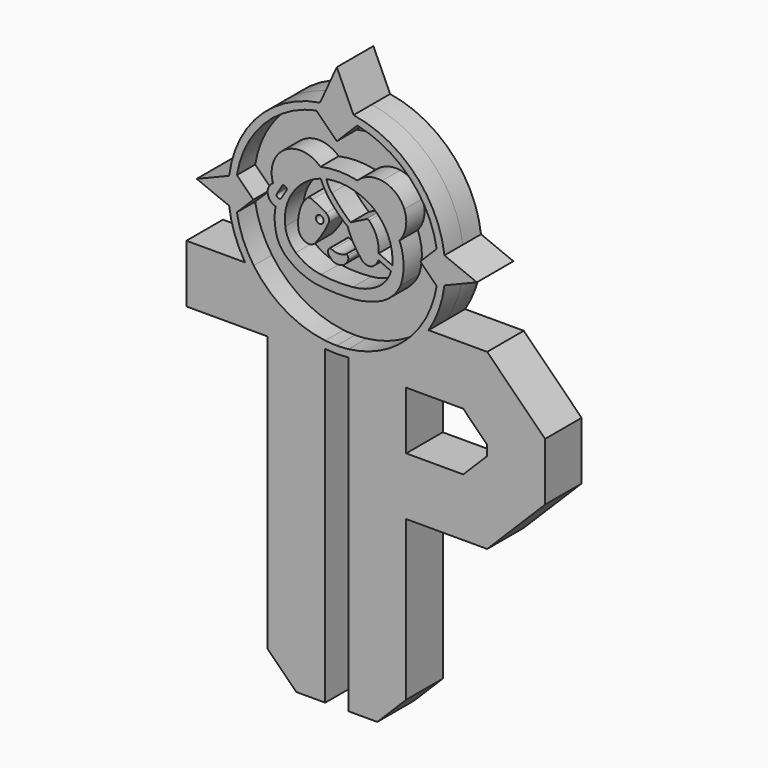
from build123d import *

# Parameters (mm, degrees)
F1_DEPTH  = 2.0066
F3_DEPTH  = 2.0066
F5_DEPTH  = 2.0066
F6_DEPTH  = 2.0066
F7_R      = 0.3395853491
F8_DEPTH  = 2.0066
F10_DEPTH = 25.4


with BuildPart() as f1:
    # F0 (on Front) → F1 (new body)
    with BuildSketch(Plane.XZ):
        with BuildLine():
            ThreePointArc((22.733, 36.83), (10.5641061085, 45.9807076279), (5.1507532618, 31.75))
            Line((5.1507532618, 31.75), (12.192, 31.75))
            Line((12.192, 31.75), (13.208, 31.75))
            Line((13.208, 31.75), (14.224, 31.75))
            Line((14.224, 31.75), (19.304, 31.75))
            Line((19.304, 31.75), (21.2652467382, 31.75))
            ThreePointArc((21.2652467382, 31.75), (22.3587076279, 34.1861061085), (22.733, 36.83))
        make_face()
        with BuildLine():
            ThreePointArc((5.1507532618, 31.75), (8.168116895, 28.7475991631), (12.192, 27.3593416807))
            Line((12.192, 27.3593416807), (12.192, 31.75))
            Line((12.192, 31.75), (5.1507532618, 31.75))
        make_face()
        with BuildLine():
            Line((14.224, 31.75), (14.224, 27.3593416807))
            ThreePointArc((14.224, 27.3593416807), (16.9232107282, 28.0594336417), (19.304, 29.5112289966))
            Line((19.304, 29.5112289966), (19.304, 31.75))
            Line((19.304, 31.75), (14.224, 31.75))
        make_face()
        with BuildLine():
            Line((12.192, 31.75), (12.192, 27.3593416807))
            ThreePointArc((12.192, 27.3593416807), (12.6992738904, 27.3185951224), (13.208, 27.305))
            Line((13.208, 27.305), (13.208, 31.75))
            Line((13.208, 31.75), (12.192, 31.75))
        make_face()
        with BuildLine():
            Line((13.208, 31.75), (13.208, 27.305))
            ThreePointArc((13.208, 27.305), (13.7167261096, 27.3185951224), (14.224, 27.3593416807))
            Line((14.224, 27.3593416807), (14.224, 31.75))
            Line((14.224, 31.75), (13.208, 31.75))
        make_face()
        with BuildLine():
            Line((7.112, 2.54), (9.652, 0))
            Line((9.652, 0), (12.192, 0))
            Line((12.192, 0), (12.192, 27.3593416807))
            ThreePointArc((12.192, 27.3593416807), (8.168116895, 28.7475991631), (5.1507532618, 31.75))
            Line((5.1507532618, 31.75), (0, 31.75))
            Line((0, 31.75), (0, 29.21))
            Line((0, 29.21), (2.54, 26.67))
            Line((2.54, 26.67), (7.112, 26.67))
            Line((7.112, 26.67), (7.112, 2.54))
        make_face()
        with BuildLine():
            Line((14.224, 27.3593416807), (14.224, 0))
            Line((14.224, 0), (16.764, 0))
            Line((16.764, 0), (19.304, 2.54))
            Line((19.304, 2.54), (19.304, 16.51))
            Line((19.304, 16.51), (19.304, 21.59))
            Line((19.304, 21.59), (19.304, 26.67))
            Line((19.304, 26.67), (19.304, 29.5112289966))
            ThreePointArc((19.304, 29.5112289966), (16.9232107282, 28.0594336417), (14.224, 27.3593416807))
        make_face()
        with BuildLine():
            Line((26.416, 31.75), (21.2652467382, 31.75))
            ThreePointArc((21.2652467382, 31.75), (20.372609006, 30.553535805), (19.304, 29.5112289966))
            Line((19.304, 29.5112289966), (19.304, 26.67))
            Line((19.304, 26.67), (24.3117951031, 26.67))
            Line((24.3117951031, 26.67), (26.416, 24.5657951031))
            Line((26.416, 24.5657951031), (26.416, 23.6942048969))
            Line((26.416, 23.6942048969), (24.3117951031, 21.59))
            Line((24.3117951031, 21.59), (19.304, 21.59))
            Line((19.304, 21.59), (19.304, 16.51))
            Line((19.304, 16.51), (26.416, 16.51))
            Line((26.416, 16.51), (31.496, 21.59))
            Line((31.496, 21.59), (31.496, 26.67))
            Line((31.496, 26.67), (26.416, 31.75))
        make_face()
        with BuildLine():
            ThreePointArc((19.304, 29.5112289966), (20.372609006, 30.553535805), (21.2652467382, 31.75))
            Line((21.2652467382, 31.75), (19.304, 31.75))
            Line((19.304, 31.75), (19.304, 29.5112289966))
        make_face()
        Polygon((0, 29.21), (0, 26.67), (2.54, 26.67), align=None)
    extrude(amount=F1_DEPTH)

    # F2 (on face) → F3 (join)
    with BuildSketch(Plane.XZ.offset(2.0066)):
        with BuildLine():
            Line((7.112, 2.54), (9.652, 0))
            Line((9.652, 0), (12.192, 0))
            Line((12.192, 0), (12.192, 27.3593416807))
            ThreePointArc((12.192, 27.3593416807), (8.168116895, 28.7475991631), (5.1507532618, 31.75))
            Line((5.1507532618, 31.75), (0, 31.75))
            Line((0, 31.75), (0, 29.21))
            Line((0, 29.21), (2.54, 26.67))
            Line((2.54, 26.67), (7.112, 26.67))
            Line((7.112, 26.67), (7.112, 2.54))
        make_face()
        with BuildLine():
            Line((14.224, 27.3593416807), (14.224, 0))
            Line((14.224, 0), (16.764, 0))
            Line((16.764, 0), (19.304, 2.54))
            Line((19.304, 2.54), (19.304, 16.51))
            Line((19.304, 16.51), (19.304, 21.59))
            Line((19.304, 21.59), (19.304, 26.67))
            Line((19.304, 26.67), (19.304, 29.5112289966))
            ThreePointArc((19.304, 29.5112289966), (16.9232107282, 28.0594336417), (14.224, 27.3593416807))
        make_face()
        with BuildLine():
            Line((26.416, 31.75), (21.2652467382, 31.75))
            ThreePointArc((21.2652467382, 31.75), (20.372609006, 30.553535805), (19.304, 29.5112289966))
            Line((19.304, 29.5112289966), (19.304, 26.67))
            Line((19.304, 26.67), (24.3117951031, 26.67))
            Line((24.3117951031, 26.67), (26.416, 24.5657951031))
            Line((26.416, 24.5657951031), (26.416, 23.6942048969))
            Line((26.416, 23.6942048969), (24.3117951031, 21.59))
            Line((24.3117951031, 21.59), (19.304, 21.59))
            Line((19.304, 21.59), (19.304, 16.51))
            Line((19.304, 16.51), (26.416, 16.51))
            Line((26.416, 16.51), (31.496, 21.59))
            Line((31.496, 21.59), (31.496, 26.67))
            Line((31.496, 26.67), (26.416, 31.75))
        make_face()
        Polygon((0, 29.21), (0, 26.67), (2.54, 26.67), align=None)
    extrude(amount=F3_DEPTH)

    # F4 (on face) → F5 (join)
    with BuildSketch(Plane.XZ.offset(2.0066)):
        with BuildLine():
            ThreePointArc((11.7337383392, 46.2402166583), (6.3613907125, 43.4519005024), (3.7538411591, 37.989528185))
            Line((3.7538411591, 37.989528185), (4.4348826521, 38.2668409794))
            ThreePointArc((4.4348826521, 38.2668409794), (6.793993779, 42.9856985142), (11.4119487758, 45.5366813425))
            Line((11.4119487758, 45.5366813425), (11.7337383392, 46.2402166583))
        make_face()
        with BuildLine():
            Line((13.208, 49.4634260503), (11.7337383392, 46.2402166583))
            ThreePointArc((11.7337383392, 46.2402166583), (12.4686383395, 46.3262608081), (13.208, 46.355))
            Line((13.208, 46.355), (13.208, 49.4634260503))
        make_face()
        with BuildLine():
            ThreePointArc((13.208, 46.355), (12.4686383395, 46.3262608081), (11.7337383392, 46.2402166583))
            Line((11.7337383392, 46.2402166583), (11.4119487758, 45.5366813425))
            ThreePointArc((11.4119487758, 45.5366813425), (12.3053087834, 45.6740515923), (13.208, 45.72))
            Line((13.208, 45.72), (13.208, 46.355))
        make_face()
        with BuildLine():
            Line((13.208, 49.4634260503), (13.208, 46.355))
            ThreePointArc((13.208, 46.355), (13.9473616605, 46.3262608081), (14.6822616608, 46.2402166583))
            Line((14.6822616608, 46.2402166583), (13.208, 49.4634260503))
        make_face()
        with BuildLine():
            ThreePointArc((14.6822616608, 46.2402166583), (13.9473616605, 46.3262608081), (13.208, 46.355))
            Line((13.208, 46.355), (13.208, 45.72))
            ThreePointArc((13.208, 45.72), (14.1106912166, 45.6740515923), (15.0040512242, 45.5366813425))
            Line((15.0040512242, 45.5366813425), (14.6822616608, 46.2402166583))
        make_face()
        with BuildLine():
            ThreePointArc((15.0040512242, 45.5366813425), (19.622006221, 42.9856985142), (21.9811173479, 38.2668409794))
            Line((21.9811173479, 38.2668409794), (22.6621588409, 37.989528185))
            ThreePointArc((22.6621588409, 37.989528185), (20.0546092875, 43.4519005024), (14.6822616608, 46.2402166583))
            Line((14.6822616608, 46.2402166583), (15.0040512242, 45.5366813425))
        make_face()
        with BuildLine():
            ThreePointArc((22.6621588409, 37.989528185), (22.7152732147, 37.4108450916), (22.733, 36.83))
            Line((22.733, 36.83), (25.5097981212, 36.83))
            Line((25.5097981212, 36.83), (22.6621588409, 37.989528185))
        make_face()
        with BuildLine():
            ThreePointArc((22.733, 36.83), (22.7152732147, 36.2491549084), (22.6621588409, 35.670471815))
            Line((22.6621588409, 35.670471815), (25.5097981212, 36.83))
            Line((25.5097981212, 36.83), (22.733, 36.83))
        make_face()
        with BuildLine():
            Line((22.098, 36.83), (22.733, 36.83))
            ThreePointArc((22.733, 36.83), (22.7152732147, 37.4108450916), (22.6621588409, 37.989528185))
            Line((22.6621588409, 37.989528185), (21.9811173479, 38.2668409794))
            ThreePointArc((21.9811173479, 38.2668409794), (22.0687311556, 37.5507935825), (22.098, 36.83))
        make_face()
        with BuildLine():
            Line((21.9811173479, 35.3931590206), (22.6621588409, 35.670471815))
            ThreePointArc((22.6621588409, 35.670471815), (22.7152732147, 36.2491549084), (22.733, 36.83))
            Line((22.733, 36.83), (22.098, 36.83))
            ThreePointArc((22.098, 36.83), (22.0687311556, 36.1092064175), (21.9811173479, 35.3931590206))
        make_face()
        with BuildLine():
            Line((20.5035945611, 31.75), (21.2652467382, 31.75))
            ThreePointArc((21.2652467382, 31.75), (22.1804498411, 33.6330062796), (22.6621588409, 35.670471815))
            Line((22.6621588409, 35.670471815), (21.9811173479, 35.3931590206))
            ThreePointArc((21.9811173479, 35.3931590206), (21.4462660503, 33.4888815519), (20.5035945611, 31.75))
        make_face()
        with BuildLine():
            Line((22.098, 36.83), (20.5442763685, 36.83))
            Line((20.5442763685, 36.83), (21.9811173479, 35.3931590206))
            ThreePointArc((21.9811173479, 35.3931590206), (22.0687311556, 36.1092064175), (22.098, 36.83))
        make_face()
        with BuildLine():
            Line((21.9811173479, 38.2668409794), (20.5442763685, 36.83))
            Line((20.5442763685, 36.83), (22.098, 36.83))
            ThreePointArc((22.098, 36.83), (22.0687311556, 37.5507935825), (21.9811173479, 38.2668409794))
        make_face()
        with BuildLine():
            ThreePointArc((13.208, 45.72), (12.3053087834, 45.6740515923), (11.4119487758, 45.5366813425))
            Line((11.4119487758, 45.5366813425), (13.208, 43.7406301183))
            Line((13.208, 43.7406301183), (13.208, 45.72))
        make_face()
        with BuildLine():
            Line((13.208, 45.72), (13.208, 43.7406301183))
            Line((13.208, 43.7406301183), (15.0040512242, 45.5366813425))
            ThreePointArc((15.0040512242, 45.5366813425), (14.1106912166, 45.6740515923), (13.208, 45.72))
        make_face()
        with BuildLine():
            Line((19.304, 30.3592284849), (19.304, 29.5112289966))
            ThreePointArc((19.304, 29.5112289966), (20.372609006, 30.553535805), (21.2652467382, 31.75))
            Line((21.2652467382, 31.75), (20.5035945611, 31.75))
            ThreePointArc((20.5035945611, 31.75), (19.9398097547, 31.0235520819), (19.304, 30.3592284849))
        make_face()
        with BuildLine():
            Line((14.224, 27.9982479654), (14.224, 27.3593416807))
            ThreePointArc((14.224, 27.3593416807), (16.9232107282, 28.0594336417), (19.304, 29.5112289966))
            Line((19.304, 29.5112289966), (19.304, 30.3592284849))
            ThreePointArc((19.304, 30.3592284849), (16.9548244225, 28.7681511583), (14.224, 27.9982479654))
        make_face()
        with BuildLine():
            Line((13.208, 27.94), (13.208, 27.305))
            ThreePointArc((13.208, 27.305), (13.7167261096, 27.3185951224), (14.224, 27.3593416807))
            Line((14.224, 27.3593416807), (14.224, 27.9982479654))
            ThreePointArc((14.224, 27.9982479654), (13.7168341639, 27.9545739373), (13.208, 27.94))
        make_face()
        with BuildLine():
            Line((12.192, 27.9982479654), (12.192, 27.3593416807))
            ThreePointArc((12.192, 27.3593416807), (12.6992738904, 27.3185951224), (13.208, 27.305))
            Line((13.208, 27.305), (13.208, 27.94))
            ThreePointArc((13.208, 27.94), (12.6991658361, 27.9545739373), (12.192, 27.9982479654))
        make_face()
        with BuildLine():
            ThreePointArc((5.1507532618, 31.75), (8.168116895, 28.7475991631), (12.192, 27.3593416807))
            Line((12.192, 27.3593416807), (12.192, 27.9982479654))
            ThreePointArc((12.192, 27.9982479654), (8.648442799, 29.1983200977), (5.9124054389, 31.75))
            Line((5.9124054389, 31.75), (5.1507532618, 31.75))
        make_face()
        with BuildLine():
            ThreePointArc((3.7538411591, 35.670471815), (4.2355501589, 33.6330062796), (5.1507532618, 31.75))
            Line((5.1507532618, 31.75), (5.9124054389, 31.75))
            ThreePointArc((5.9124054389, 31.75), (4.9697339497, 33.4888815519), (4.4348826521, 35.3931590206))
            Line((4.4348826521, 35.3931590206), (3.7538411591, 35.670471815))
        make_face()
        with BuildLine():
            ThreePointArc((4.318, 36.83), (4.3472688444, 36.1092064175), (4.4348826521, 35.3931590206))
            Line((4.4348826521, 35.3931590206), (5.8717236315, 36.83))
            Line((5.8717236315, 36.83), (4.318, 36.83))
        make_face()
        with BuildLine():
            ThreePointArc((4.4348826521, 38.2668409794), (4.3472688444, 37.5507935825), (4.318, 36.83))
            Line((4.318, 36.83), (5.8717236315, 36.83))
            Line((5.8717236315, 36.83), (4.4348826521, 38.2668409794))
        make_face()
        with BuildLine():
            ThreePointArc((3.7538411591, 37.989528185), (3.7007267853, 37.4108450916), (3.683, 36.83))
            Line((3.683, 36.83), (4.318, 36.83))
            ThreePointArc((4.318, 36.83), (4.3472688444, 37.5507935825), (4.4348826521, 38.2668409794))
            Line((4.4348826521, 38.2668409794), (3.7538411591, 37.989528185))
        make_face()
        with BuildLine():
            ThreePointArc((3.683, 36.83), (3.7007267853, 36.2491549084), (3.7538411591, 35.670471815))
            Line((3.7538411591, 35.670471815), (4.4348826521, 35.3931590206))
            ThreePointArc((4.4348826521, 35.3931590206), (4.3472688444, 36.1092064175), (4.318, 36.83))
            Line((4.318, 36.83), (3.683, 36.83))
        make_face()
        with BuildLine():
            Line((0.9062018788, 36.83), (3.7538411591, 35.670471815))
            ThreePointArc((3.7538411591, 35.670471815), (3.7007267853, 36.2491549084), (3.683, 36.83))
            Line((3.683, 36.83), (0.9062018788, 36.83))
        make_face()
        with BuildLine():
            Line((0.9062018788, 36.83), (3.683, 36.83))
            ThreePointArc((3.683, 36.83), (3.7007267853, 37.4108450916), (3.7538411591, 37.989528185))
            Line((3.7538411591, 37.989528185), (0.9062018788, 36.83))
        make_face()
    extrude(amount=F5_DEPTH)

    # F6 (add): faces of the model
    f6_faces = [f1.faces().sort_by_distance(p)[0] for p in [
        (23.6429889816, -2.0066, 36.83),
        (13.208, -2.0066, 47.3659529269),
        (2.7730110184, -2.0066, 36.83),
    ]]
    extrude(f6_faces, amount=F6_DEPTH)

    # F7 (on face) → F8 (join)
    with BuildSketch(Plane.XZ.offset(2.0066)):
        with BuildLine():
            ThreePointArc((11.7655387148, 41.2939190865), (10.1235861565, 41.9884859927), (8.4269875661, 41.4407774806))
            ThreePointArc((8.4269875661, 41.4407774806), (7.5898150368, 40.1818629794), (7.6045878232, 38.6700741947))
            ThreePointArc((7.6045878232, 38.6700741947), (7.1406712128, 37.7343693977), (7.8296912834, 36.9495041668))
            ThreePointArc((7.8296912834, 36.9495041668), (7.7458512731, 36.0644813627), (7.8296912834, 35.1794585586))
            ThreePointArc((7.8296912834, 35.1794585586), (8.193630658, 34.1014414579), (8.9328829199, 33.2365259528))
            ThreePointArc((8.9328829199, 33.2365259528), (10.0346027917, 32.5390461313), (11.2709905952, 32.124787786))
            ThreePointArc((11.2709905952, 32.124787786), (12.6711481938, 31.9836588419), (14.0783665702, 31.9739058614))
            ThreePointArc((14.0783665702, 31.9739058614), (15.4902037891, 32.124787786), (16.8475285172, 32.5415842235))
            ThreePointArc((16.8475285172, 32.5415842235), (18.0266687609, 33.2925740957), (18.8274811953, 34.4384610653))
            ThreePointArc((18.8274811953, 34.4384610653), (19.0720551021, 36.1576749956), (18.7167730182, 37.857465446))
            ThreePointArc((18.7167730182, 37.857465446), (19.2758705368, 39.0776900696), (19.1377643496, 40.4127798975))
            ThreePointArc((19.1377643496, 40.4127798975), (18.3668577651, 41.4488050506), (17.1894598752, 41.9792570174))
            ThreePointArc((17.1894598752, 41.9792570174), (16.0192133906, 41.8870115613), (15.0061845779, 41.2939190865))
            ThreePointArc((15.0061845779, 41.2939190865), (13.3858616464, 41.4690410401), (11.7655387148, 41.2939190865))
        make_face()
        with BuildLine():
            ThreePointArc((9.0462546796, 38.0003713071), (10.1763693973, 39.47188046), (11.7899496108, 40.3877720237))
            ThreePointArc((11.7899496108, 40.3877720237), (12.2484669753, 39.4947717859), (12.8473220393, 38.6891290545))
            ThreePointArc((12.8473220393, 38.6891290545), (13.486634222, 38.0266836156), (14.1886165366, 37.4310538173))
            ThreePointArc((14.1886165366, 37.4310538173), (14.2303069377, 37.2465288113), (14.2989754677, 37.0702557266))
            ThreePointArc((14.2989754677, 37.0702557266), (14.7794559971, 36.1392937497), (15.3906140476, 35.2883897722))
            ThreePointArc((15.3906140476, 35.2883897722), (15.8992163911, 35.0093855555), (16.4577756077, 35.1660102606))
            ThreePointArc((16.4577756077, 35.1660102606), (16.7048106806, 35.4253526157), (16.8591849506, 35.7485450804))
            Line((16.8591849506, 35.7485450804), (17.9752986878, 35.2394394577))
            ThreePointArc((17.9752986878, 35.2394394577), (17.4919323399, 34.3019529339), (16.707861796, 33.5964336991))
            ThreePointArc((16.707861796, 33.5964336991), (15.7003965017, 33.1405028312), (14.6175967529, 32.915994525))
            ThreePointArc((14.6175967529, 32.915994525), (13.2183310012, 32.8656155751), (11.8224173784, 32.9747386277))
            ThreePointArc((11.8224173784, 32.9747386277), (10.6438545972, 33.3029414482), (9.6048759297, 33.9488908648))
            ThreePointArc((9.6048759297, 33.9488908648), (8.9831845925, 34.7349345142), (8.6845718324, 35.6915928423))
            ThreePointArc((8.6845718324, 35.6915928423), (8.6994824983, 36.8719760407), (9.0462546796, 38.0003713071))
        make_face(mode=Mode.SUBTRACT)
        with BuildLine():
            ThreePointArc((8.4402235225, 38.7858040631), (8.7004644149, 38.7711741511), (8.8140610605, 38.5365784168))
            Line((8.8140610605, 38.5365784168), (8.3294576034, 37.7542898059))
            ThreePointArc((8.3294576034, 37.7542898059), (8.0212824577, 37.6865800212), (7.9625435174, 37.9965901375))
            Line((7.9625435174, 37.9965901375), (8.4402235225, 38.7858040631))
        make_face(mode=Mode.SUBTRACT)
        with BuildLine():
            ThreePointArc((12.2963301837, 40.518399328), (14.4040982993, 40.5091077675), (16.3393095136, 39.6738052368))
            ThreePointArc((16.3393095136, 39.6738052368), (17.7157475444, 37.9191603213), (18.0908031762, 35.72082147))
            Line((18.0908031762, 35.72082147), (16.8859641999, 36.2663604319))
            ThreePointArc((16.8859641999, 36.2663604319), (16.7060443319, 37.4930487449), (16.0482916981, 38.5439991951))
            ThreePointArc((16.0482916981, 38.5439991951), (15.9098338336, 38.5866833617), (15.7713759691, 38.5439991951))
            Line((15.7713759691, 38.5439991951), (14.4125232473, 37.8508754075))
            ThreePointArc((14.4125232473, 37.8508754075), (13.545576536, 38.6836664771), (12.7674564719, 39.5999997854))
            ThreePointArc((12.7674564719, 39.5999997854), (12.4777874139, 40.0314439697), (12.2963301837, 40.518399328))
        make_face(mode=Mode.SUBTRACT)
        with BuildLine():
            ThreePointArc((12.520942837, 37.2644513845), (12.4907725828, 37.6101707397), (12.2698433697, 37.8777943552))
            ThreePointArc((12.2698433697, 37.8777943552), (11.6647316024, 38.2263319879), (11.0390437767, 38.5364182293))
            ThreePointArc((11.0390437767, 38.5364182293), (10.8501480139, 38.5935248462), (10.6562189758, 38.556996733))
            ThreePointArc((10.6562189758, 38.556996733), (10.1959160009, 37.966522926), (9.9358512089, 37.2644513845))
            ThreePointArc((9.9358512089, 37.2644513845), (9.8102264781, 36.5136975142), (9.8535241559, 35.7537381351))
            ThreePointArc((9.8535241559, 35.7537381351), (9.9619858142, 35.499897754), (10.1293213665, 35.2803580463))
            ThreePointArc((10.1293213665, 35.2803580463), (10.4401824599, 35.0642458218), (10.8126420528, 34.9963270128))
            ThreePointArc((10.8126420528, 34.9963270128), (11.1317918862, 35.0971642108), (11.3724702969, 35.3297553957))
            ThreePointArc((11.3724702969, 35.3297553957), (12.0109705816, 36.2589550419), (12.520942837, 37.2644513845))
        make_face()
        with Locations((11.7149660364, 37.2069180012)):
            Circle(F7_R, mode=Mode.SUBTRACT)
        with BuildLine():
            ThreePointArc((13.8092907146, 35.1765044034), (13.299179503, 35.1037105582), (12.7966599539, 35.2176688612))
            ThreePointArc((12.7966599539, 35.2176688612), (12.7056240303, 35.2624459838), (12.6054650173, 35.2785922587))
            ThreePointArc((12.6054650173, 35.2785922587), (12.5328645746, 35.230269425), (12.4830845743, 35.1586602628))
            ThreePointArc((12.4830845743, 35.1586602628), (12.4389196439, 34.9567309022), (12.4830845743, 34.7548015416))
            ThreePointArc((12.4830845743, 34.7548015416), (12.722700144, 34.46941512), (13.0435889587, 34.2799648643))
            ThreePointArc((13.0435889587, 34.2799648643), (13.2402311512, 34.2521689486), (13.438815251, 34.2544317245))
            ThreePointArc((13.438815251, 34.2544317245), (13.7683718406, 34.3565531208), (14.0315750614, 34.5796234906))
            ThreePointArc((14.0315750614, 34.5796234906), (14.1327221797, 34.7086743129), (14.2013123259, 34.8576046526))
            ThreePointArc((14.2013123259, 34.8576046526), (14.2152933441, 35.0300057461), (14.1645977274, 35.195376724))
            ThreePointArc((14.1645977274, 35.195376724), (14.1106649975, 35.2553671601), (14.0315750614, 35.2712534368))
            ThreePointArc((14.0315750614, 35.2712534368), (13.9216644261, 35.2209896913), (13.8092907146, 35.1765044034))
        make_face()
    extrude(amount=F8_DEPTH)

    # F9 (on face) → F10 (cut)
    with BuildSketch(Plane.XZ.offset(2.0066)):
        with BuildLine():
            Line((8.8978087031, 44.6052396094), (13.081, 43.8676301183))
            Line((13.081, 43.8676301183), (11.4119487758, 45.5366813425))
            ThreePointArc((11.4119487758, 45.5366813425), (10.119562635, 45.1662854223), (8.8978087031, 44.6052396094))
        make_face()
        with BuildLine():
            Line((15.0040512242, 45.5366813425), (13.335, 43.8676301183))
            Line((13.335, 43.8676301183), (17.5181912969, 44.6052396094))
            ThreePointArc((17.5181912969, 44.6052396094), (16.296437365, 45.1662854223), (15.0040512242, 45.5366813425))
        make_face()
    extrude(amount=-F10_DEPTH, mode=Mode.SUBTRACT)


solid = f1.part
